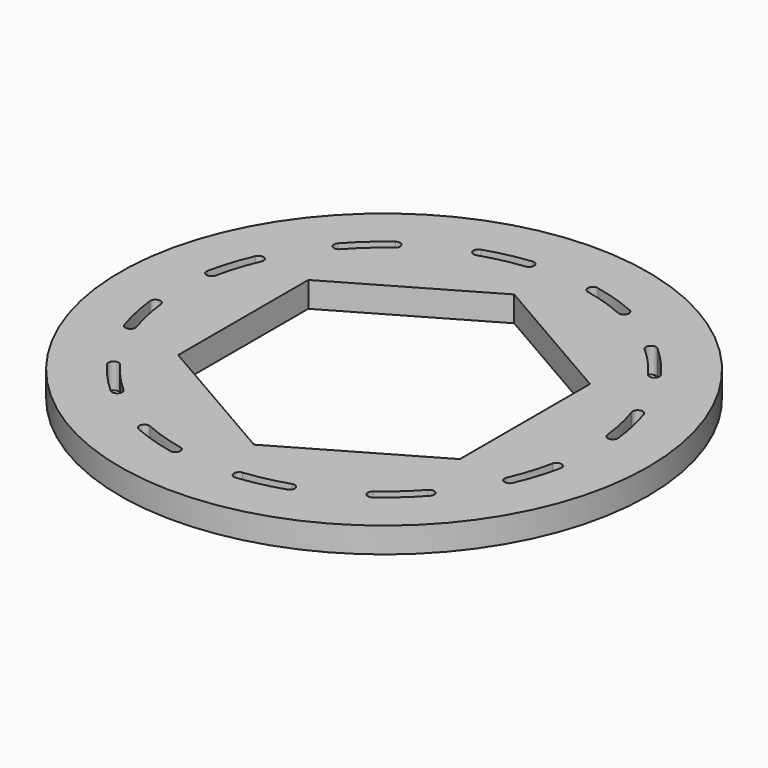
from build123d import *

# Parameters (mm, degrees)
F0_R     = 25.975
F1_DEPTH = 2.5
F3_DEPTH = 3


with BuildPart() as f1:
    # F0 (on Top) → F1 (new body)
    with BuildSketch(Plane.XY):
        Circle(F0_R)
        Polygon((-13.86, 8.002075), (0, 16.004149), (13.86, 8.002075), (13.86, -8.002075), (0, -16.004149), (-13.86, -8.002075), align=None, mode=Mode.SUBTRACT)
    extrude(amount=F1_DEPTH)

    # F2 (on face) → F3 (cut)
    with BuildSketch(Plane.XY.offset(2.5)):
        with BuildLine():
            ThreePointArc((16.363608, 12.021167), (17.062582, 11.914235), (17.169515, 12.613209))
            ThreePointArc((17.169515, 12.613209), (15.766582, 14.3283), (14.1931, 15.888398))
            ThreePointArc((14.1931, 15.888398), (13.487113, 15.848611), (13.5269, 15.142625))
            ThreePointArc((13.5269, 15.142625), (15.026526, 13.655754), (16.363608, 12.021167))
        make_face()
        with BuildLine():
            ThreePointArc((8.160716, 18.59244), (8.819512, 18.849321), (8.562631, 19.508117))
            ThreePointArc((8.562631, 19.508117), (6.490111, 20.291962), (4.347386, 20.856306))
            ThreePointArc((4.347386, 20.856306), (3.755877, 20.468856), (4.143327, 19.877348))
            ThreePointArc((4.143327, 19.877348), (6.185476, 19.339493), (8.160716, 18.59244))
        make_face()
        with BuildLine():
            ThreePointArc((-2.228832, 20.181883), (-1.786739, 20.733747), (-2.338602, 21.17584))
            ThreePointArc((-2.338602, 21.17584), (-4.52538, 20.81841), (-6.663207, 20.235784))
            ThreePointArc((-6.663207, 20.235784), (-6.981743, 19.604488), (-6.350447, 19.285952))
            ThreePointArc((-6.350447, 19.285952), (-4.312967, 19.841231), (-2.228832, 20.181883))
        make_face()
        with BuildLine():
            ThreePointArc((-12.021167, 16.363608), (-11.914235, 17.062582), (-12.613209, 17.169515))
            ThreePointArc((-12.613209, 17.169515), (-14.3283, 15.766582), (-15.888398, 14.1931))
            ThreePointArc((-15.888398, 14.1931), (-15.848611, 13.487113), (-15.142625, 13.5269))
            ThreePointArc((-15.142625, 13.5269), (-13.655754, 15.026526), (-12.021167, 16.363608))
        make_face()
        with BuildLine():
            ThreePointArc((-18.59244, 8.160716), (-18.849321, 8.819512), (-19.508117, 8.562631))
            ThreePointArc((-19.508117, 8.562631), (-20.291962, 6.490111), (-20.856306, 4.347386))
            ThreePointArc((-20.856306, 4.347386), (-20.468856, 3.755877), (-19.877348, 4.143327))
            ThreePointArc((-19.877348, 4.143327), (-19.339493, 6.185476), (-18.59244, 8.160716))
        make_face()
        with BuildLine():
            ThreePointArc((-20.181883, -2.228832), (-20.733747, -1.786739), (-21.17584, -2.338602))
            ThreePointArc((-21.17584, -2.338602), (-20.81841, -4.52538), (-20.235784, -6.663207))
            ThreePointArc((-20.235784, -6.663207), (-19.604488, -6.981743), (-19.285952, -6.350447))
            ThreePointArc((-19.285952, -6.350447), (-19.841231, -4.312967), (-20.181883, -2.228832))
        make_face()
        with BuildLine():
            ThreePointArc((-16.363608, -12.021167), (-17.062582, -11.914235), (-17.169515, -12.613209))
            ThreePointArc((-17.169515, -12.613209), (-15.766582, -14.3283), (-14.1931, -15.888398))
            ThreePointArc((-14.1931, -15.888398), (-13.487113, -15.848611), (-13.5269, -15.142625))
            ThreePointArc((-13.5269, -15.142625), (-15.026526, -13.655754), (-16.363608, -12.021167))
        make_face()
        with BuildLine():
            ThreePointArc((-8.160716, -18.59244), (-8.819512, -18.849321), (-8.562631, -19.508117))
            ThreePointArc((-8.562631, -19.508117), (-6.490111, -20.291962), (-4.347386, -20.856306))
            ThreePointArc((-4.347386, -20.856306), (-3.755877, -20.468856), (-4.143327, -19.877348))
            ThreePointArc((-4.143327, -19.877348), (-6.185476, -19.339493), (-8.160716, -18.59244))
        make_face()
        with BuildLine():
            ThreePointArc((2.228832, -20.181883), (1.786739, -20.733747), (2.338602, -21.17584))
            ThreePointArc((2.338602, -21.17584), (4.52538, -20.81841), (6.663207, -20.235784))
            ThreePointArc((6.663207, -20.235784), (6.981743, -19.604488), (6.350447, -19.285952))
            ThreePointArc((6.350447, -19.285952), (4.312967, -19.841231), (2.228832, -20.181883))
        make_face()
        with BuildLine():
            ThreePointArc((12.021167, -16.363608), (11.914235, -17.062582), (12.613209, -17.169515))
            ThreePointArc((12.613209, -17.169515), (14.3283, -15.766582), (15.888398, -14.1931))
            ThreePointArc((15.888398, -14.1931), (15.848611, -13.487113), (15.142625, -13.5269))
            ThreePointArc((15.142625, -13.5269), (13.655754, -15.026526), (12.021167, -16.363608))
        make_face()
        with BuildLine():
            ThreePointArc((18.59244, -8.160716), (18.849321, -8.819512), (19.508117, -8.562631))
            ThreePointArc((19.508117, -8.562631), (20.291962, -6.490111), (20.856306, -4.347386))
            ThreePointArc((20.856306, -4.347386), (20.468856, -3.755877), (19.877348, -4.143327))
            ThreePointArc((19.877348, -4.143327), (19.339493, -6.185476), (18.59244, -8.160716))
        make_face()
        with BuildLine():
            ThreePointArc((20.181883, 2.228832), (20.733747, 1.786739), (21.17584, 2.338602))
            ThreePointArc((21.17584, 2.338602), (20.81841, 4.52538), (20.235784, 6.663207))
            ThreePointArc((20.235784, 6.663207), (19.604488, 6.981743), (19.285952, 6.350447))
            ThreePointArc((19.285952, 6.350447), (19.841231, 4.312967), (20.181883, 2.228832))
        make_face()
    extrude(amount=-F3_DEPTH, mode=Mode.SUBTRACT)


solid = f1.part
